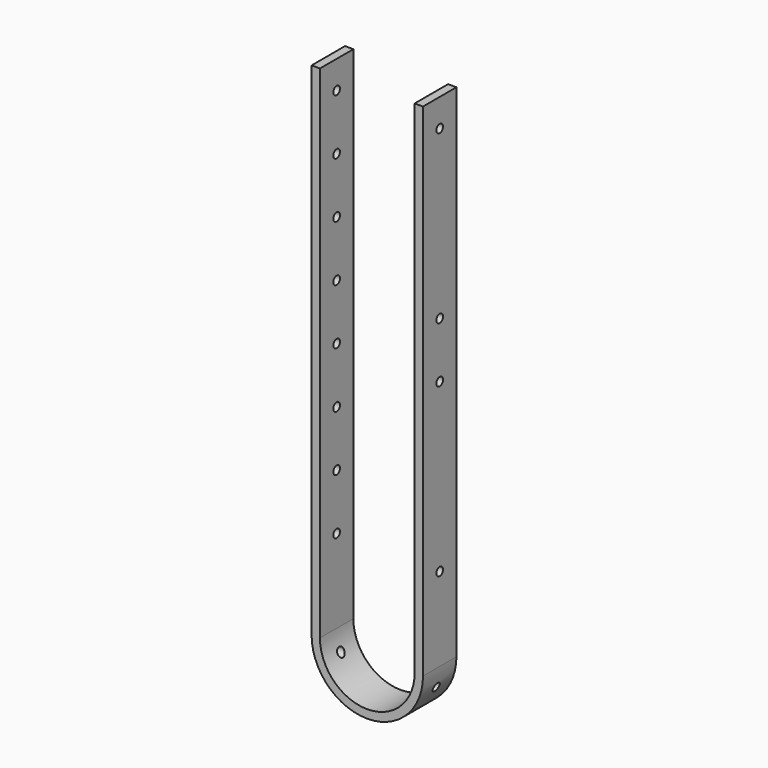
from build123d import *

# Parameters (mm, degrees)
F1_DEPTH = 15
F3_D     = 3
F3_DEPTH = 10
F5_D     = 3
F5_DEPTH = 10
F7_D     = 3
F7_DEPTH = 50


with BuildPart() as f1:
    # F0 (on Front) → F1 (new body)
    with BuildSketch(Plane.XZ):
        with BuildLine():
            Line((-27.360521, 90.12893), (-27.360521, -89.87107))
            ThreePointArc((-27.360521, -89.87107), (-7.360521, -109.87107), (12.639479, -89.87107))
            Line((12.639479, -89.87107), (12.639479, 90.12893))
            Line((12.639479, 90.12893), (9.639479, 90.12893))
            Line((9.639479, 90.12893), (9.639479, -89.87107))
            ThreePointArc((9.639479, -89.87107), (-7.360521, -106.87107), (-24.360521, -89.87107))
            Line((-24.360521, -89.87107), (-24.360521, 90.12893))
            Line((-24.360521, 90.12893), (-27.360521, 90.12893))
        make_face()
    extrude(amount=F1_DEPTH)

    # F3
    with Locations(Plane(origin=(-27.360521, 0, 0), x_dir=(0, -1, 0), z_dir=(-1, 0, 0))):
        with Locations((7.5, 80.12893), (7.5, 20.130026), (7.5, 0.130026), (7.5, -59.869974), (7.5, 60.12893), (7.5, 40.130026), (7.5, -19.869974), (7.5, -39.869974)):
            Hole(F3_D / 2, depth=F3_DEPTH)

    # F5
    with Locations(Plane.YZ.offset(12.639479)):
        with Locations((-7.5, 80.12893), (-7.5, 20.12893), (-7.5, 0.12893), (-7.5, -59.87107)):
            Hole(F5_D / 2, depth=F5_DEPTH)

    # F7
    with Locations(Plane.YZ.offset(12.639479)):
        with Locations((-7.5, -96.87107)):
            Hole(F7_D / 2, depth=F7_DEPTH)


solid = f1.part
